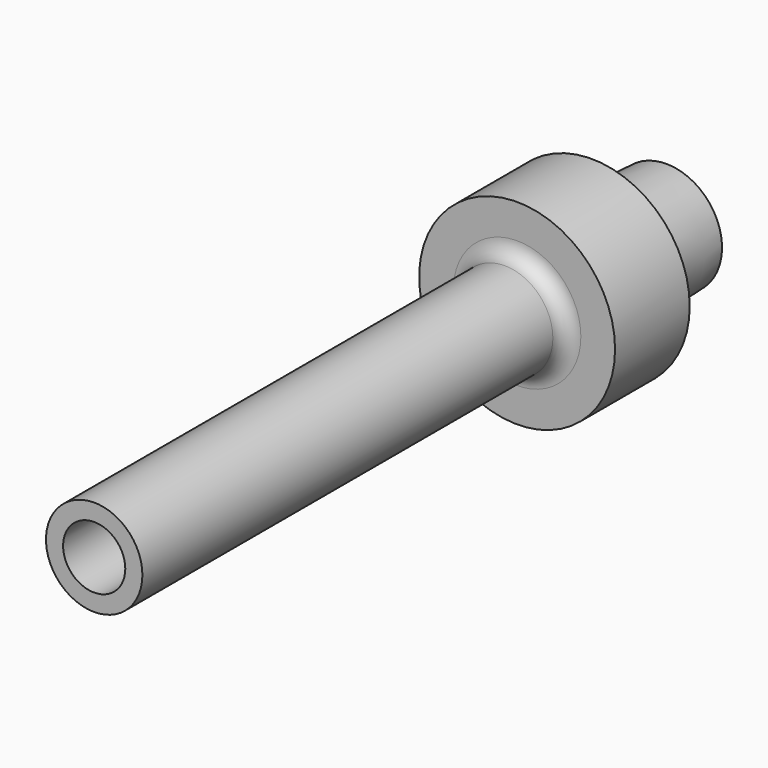
from build123d import *

# Parameters (mm, degrees)
F0_R     = 31.5
F1_DEPTH = 200
F2_R     = 49.4625151614
F2_R_2   = 15.5
F3_DEPTH = 170
F4_R     = 5
F5_R     = 19.4675976679
F6_DEPTH = 30
F6_TAPER = 3
F7_R     = 10
F8_DEPTH = 25


with BuildPart() as f1:
    # F0 (on Front) → F1 (new body)
    with BuildSketch(Plane.XZ):
        Circle(F0_R)
    extrude(amount=F1_DEPTH)

    # F2 (on face) → F3 (cut)
    with BuildSketch(Plane.XZ.offset(200)):
        Circle(F2_R)
        Circle(F2_R_2, mode=Mode.SUBTRACT)
    extrude(amount=-F3_DEPTH, mode=Mode.SUBTRACT)

    # F4
    f4_edges = [f1.edges().sort_by_distance(p)[0] for p in [
        (-15.5, -30, 0),
    ]]
    fillet(f4_edges, radius=F4_R)

    # F5 (on face) → F6 (join)
    with BuildSketch(Plane(origin=(0, 0, 0), x_dir=(-1, 0, 0), z_dir=(0, 1, 0))):
        Circle(F5_R)
    extrude(amount=F6_DEPTH, taper=F6_TAPER)

    # F7 (on face) → F8 (cut)
    with BuildSketch(Plane.XZ.offset(200)):
        Circle(F7_R)
    extrude(amount=-F8_DEPTH, mode=Mode.SUBTRACT)


solid = f1.part
